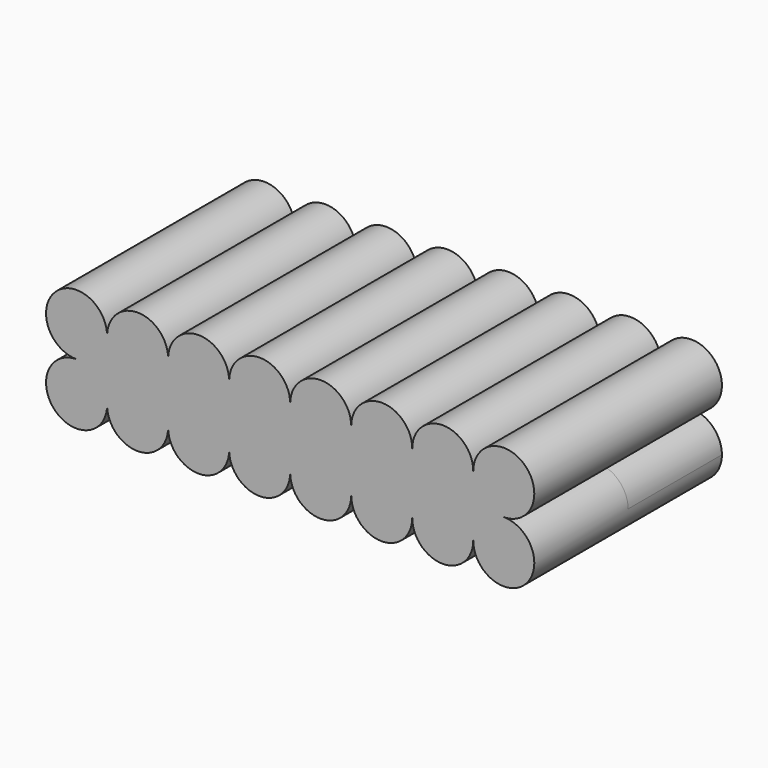
from build123d import *

# Parameters (mm, degrees)
F1_DEPTH = 34.163


with BuildPart() as f1:
    # F0 (on Front) → F1 (new body, symmetric)
    with BuildSketch(Plane.XZ):
        with BuildLine():
            ThreePointArc((8.8900000424, 17.78), (2.6038207003, 2.6038207302), (17.78, 8.89))
            ThreePointArc((17.78, 8.89), (15.1761792997, 15.1761792698), (8.8900000424, 17.78))
        make_face()
        with BuildLine():
            ThreePointArc((26.67, 17.78), (20.3838207153, 15.1761792847), (17.78, 8.89))
            ThreePointArc((17.78, 8.89), (26.67, 0), (35.56, 8.89))
            ThreePointArc((35.56, 8.89), (32.9561792847, 15.1761792847), (26.67, 17.78))
        make_face()
        with BuildLine():
            ThreePointArc((8.8900000424, 17.78), (15.1761792997, 15.1761792698), (17.78, 8.89))
            ThreePointArc((17.78, 8.89), (20.3838207153, 15.1761792847), (26.67, 17.78))
            ThreePointArc((26.67, 17.78), (20.3838207153, 20.3838207153), (17.78, 26.67))
            ThreePointArc((17.78, 26.67), (15.1761792997, 20.3838207302), (8.8900000424, 17.78))
        make_face()
        with BuildLine():
            ThreePointArc((17.78, 26.67), (2.6038207003, 32.9561792698), (8.8900000424, 17.78))
            ThreePointArc((8.8900000424, 17.78), (15.1761792997, 20.3838207302), (17.78, 26.67))
        make_face()
        with BuildLine():
            ThreePointArc((44.45, 17.78), (38.1638207153, 15.1761792847), (35.56, 8.89))
            ThreePointArc((35.56, 8.89), (44.45, 0), (53.34, 8.89))
            ThreePointArc((53.34, 8.89), (50.7361792847, 15.1761792847), (44.45, 17.78))
        make_face()
        with BuildLine():
            ThreePointArc((26.67, 17.78), (32.9561792847, 15.1761792847), (35.56, 8.89))
            ThreePointArc((35.56, 8.89), (38.1638207153, 15.1761792847), (44.45, 17.78))
            ThreePointArc((44.45, 17.78), (38.1638207153, 20.3838207153), (35.56, 26.67))
            ThreePointArc((35.56, 26.67), (32.9561792847, 20.3838207153), (26.67, 17.78))
        make_face()
        with BuildLine():
            ThreePointArc((17.78, 26.67), (20.3838207153, 20.3838207153), (26.67, 17.78))
            ThreePointArc((26.67, 17.78), (32.9561792847, 20.3838207153), (35.56, 26.67))
            ThreePointArc((35.56, 26.67), (26.67, 35.56), (17.78, 26.67))
        make_face()
        with BuildLine():
            ThreePointArc((62.23, 17.78), (55.9438207153, 15.1761792847), (53.34, 8.89))
            ThreePointArc((53.34, 8.89), (62.23, 0), (71.12, 8.89))
            ThreePointArc((71.12, 8.89), (68.5161792847, 15.1761792847), (62.23, 17.78))
        make_face()
        with BuildLine():
            ThreePointArc((44.45, 17.78), (50.7361792847, 15.1761792847), (53.34, 8.89))
            ThreePointArc((53.34, 8.89), (55.9438207153, 15.1761792847), (62.23, 17.78))
            ThreePointArc((62.23, 17.78), (55.9438207153, 20.3838207153), (53.34, 26.67))
            ThreePointArc((53.34, 26.67), (50.7361792847, 20.3838207153), (44.45, 17.78))
        make_face()
        with BuildLine():
            ThreePointArc((35.56, 26.67), (38.1638207153, 20.3838207153), (44.45, 17.78))
            ThreePointArc((44.45, 17.78), (50.7361792847, 20.3838207153), (53.34, 26.67))
            ThreePointArc((53.34, 26.67), (44.45, 35.56), (35.56, 26.67))
        make_face()
        with BuildLine():
            ThreePointArc((80.01, 17.78), (73.7238207153, 15.1761792847), (71.12, 8.89))
            ThreePointArc((71.12, 8.89), (80.01, 0), (88.9, 8.89))
            ThreePointArc((88.9, 8.89), (86.2961792847, 15.1761792847), (80.01, 17.78))
        make_face()
        with BuildLine():
            ThreePointArc((62.23, 17.78), (68.5161792847, 15.1761792847), (71.12, 8.89))
            ThreePointArc((71.12, 8.89), (73.7238207153, 15.1761792847), (80.01, 17.78))
            ThreePointArc((80.01, 17.78), (73.7238207153, 20.3838207153), (71.12, 26.67))
            ThreePointArc((71.12, 26.67), (68.5161792847, 20.3838207153), (62.23, 17.78))
        make_face()
        with BuildLine():
            ThreePointArc((53.34, 26.67), (55.9438207153, 20.3838207153), (62.23, 17.78))
            ThreePointArc((62.23, 17.78), (68.5161792847, 20.3838207153), (71.12, 26.67))
            ThreePointArc((71.12, 26.67), (62.23, 35.56), (53.34, 26.67))
        make_face()
        with BuildLine():
            ThreePointArc((97.79, 17.78), (91.5038207153, 15.1761792847), (88.9, 8.89))
            ThreePointArc((88.9, 8.89), (97.79, 0), (106.68, 8.89))
            ThreePointArc((106.68, 8.89), (104.0761792847, 15.1761792847), (97.79, 17.78))
        make_face()
        with BuildLine():
            ThreePointArc((80.01, 17.78), (86.2961792847, 15.1761792847), (88.9, 8.89))
            ThreePointArc((88.9, 8.89), (91.5038207153, 15.1761792847), (97.79, 17.78))
            ThreePointArc((97.79, 17.78), (91.5038207153, 20.3838207153), (88.9, 26.67))
            ThreePointArc((88.9, 26.67), (86.2961792847, 20.3838207153), (80.01, 17.78))
        make_face()
        with BuildLine():
            ThreePointArc((71.12, 26.67), (73.7238207153, 20.3838207153), (80.01, 17.78))
            ThreePointArc((80.01, 17.78), (86.2961792847, 20.3838207153), (88.9, 26.67))
            ThreePointArc((88.9, 26.67), (80.01, 35.56), (71.12, 26.67))
        make_face()
        with BuildLine():
            ThreePointArc((115.57, 17.78), (109.2838207153, 15.1761792847), (106.68, 8.89))
            ThreePointArc((106.68, 8.89), (115.57, 0), (124.46, 8.89))
            ThreePointArc((124.46, 8.89), (121.8561792847, 15.1761792847), (115.57, 17.78))
        make_face()
        with BuildLine():
            ThreePointArc((97.79, 17.78), (104.0761792847, 15.1761792847), (106.68, 8.89))
            ThreePointArc((106.68, 8.89), (109.2838207153, 15.1761792847), (115.57, 17.78))
            ThreePointArc((115.57, 17.78), (109.2838207153, 20.3838207153), (106.68, 26.67))
            ThreePointArc((106.68, 26.67), (104.0761792847, 20.3838207153), (97.79, 17.78))
        make_face()
        with BuildLine():
            ThreePointArc((88.9, 26.67), (91.5038207153, 20.3838207153), (97.79, 17.78))
            ThreePointArc((97.79, 17.78), (104.0761792847, 20.3838207153), (106.68, 26.67))
            ThreePointArc((106.68, 26.67), (97.79, 35.56), (88.9, 26.67))
        make_face()
        with BuildLine():
            ThreePointArc((133.35, 17.78), (127.0638207153, 15.1761792847), (124.46, 8.89))
            ThreePointArc((124.46, 8.89), (133.35, 0), (142.24, 8.89))
            ThreePointArc((142.24, 8.89), (139.6361792847, 15.1761792847), (133.35, 17.78))
        make_face()
        with BuildLine():
            ThreePointArc((115.57, 17.78), (121.8561792847, 15.1761792847), (124.46, 8.89))
            ThreePointArc((124.46, 8.89), (127.0638207153, 15.1761792847), (133.35, 17.78))
            ThreePointArc((133.35, 17.78), (127.0638207153, 20.3838207153), (124.46, 26.67))
            ThreePointArc((124.46, 26.67), (121.8561792847, 20.3838207153), (115.57, 17.78))
        make_face()
        with BuildLine():
            ThreePointArc((106.68, 26.67), (109.2838207153, 20.3838207153), (115.57, 17.78))
            ThreePointArc((115.57, 17.78), (121.8561792847, 20.3838207153), (124.46, 26.67))
            ThreePointArc((124.46, 26.67), (115.57, 35.56), (106.68, 26.67))
        make_face()
        with BuildLine():
            ThreePointArc((124.46, 26.67), (127.0638207153, 20.3838207153), (133.35, 17.78))
            ThreePointArc((133.35, 17.78), (139.6361792847, 20.3838207153), (142.24, 26.67))
            ThreePointArc((142.24, 26.67), (133.35, 35.56), (124.46, 26.67))
        make_face()
    extrude(amount=F1_DEPTH, both=True)


solid = f1.part
